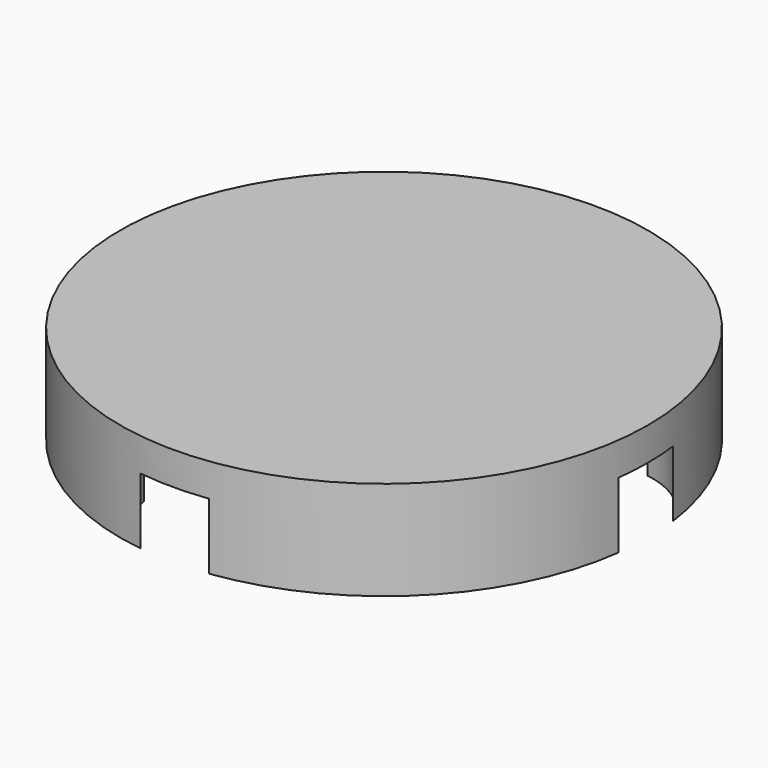
from build123d import *

# Parameters (mm, degrees)
F0_R     = 8
F1_DEPTH = 3
F3_DEPTH = 2


with BuildPart() as f1:
    # F0 (on Top) → F1 (new body)
    with BuildSketch(Plane.XY):
        Circle(F0_R)
    extrude(amount=F1_DEPTH)

    # F2 (on face) → F3 (cut)
    with BuildSketch(Plane(origin=(0, 0, 0), x_dir=(1, 0, 0), z_dir=(0, 0, -1))):
        with BuildLine():
            ThreePointArc((-7.9328542014, -1.0343230727), (-7.1559987547, -2.0006413353), (-6.0104076401, -2.4748737342))
            ThreePointArc((-6.0104076401, -2.4748737342), (-4.5961940777, -4.5961940777), (-2.4748737342, -6.0104076401))
            ThreePointArc((-2.4748737342, -6.0104076401), (-2.0006413353, -7.1559987547), (-1.0343230727, -7.9328542014))
            ThreePointArc((-1.0343230727, -7.9328542014), (0, -8), (1.0343230727, -7.9328542014))
            ThreePointArc((1.0343230727, -7.9328542014), (2.0006413353, -7.1559987547), (2.4748737342, -6.0104076401))
            ThreePointArc((2.4748737342, -6.0104076401), (4.5961940777, -4.5961940777), (6.0104076401, -2.4748737342))
            ThreePointArc((6.0104076401, -2.4748737342), (7.1559987547, -2.0006413353), (7.9328542014, -1.0343230727))
            ThreePointArc((7.9328542014, -1.0343230727), (7.9831959018, -0.5182501271), (8, 0))
            ThreePointArc((8, 0), (7.9831959018, 0.5182501271), (7.9328542014, 1.0343230727))
            ThreePointArc((7.9328542014, 1.0343230727), (7.1559987547, 2.0006413353), (6.0104076401, 2.4748737342))
            ThreePointArc((6.0104076401, 2.4748737342), (4.5961940777, 4.5961940777), (2.4748737342, 6.0104076401))
            ThreePointArc((2.4748737342, 6.0104076401), (2.0006413353, 7.1559987547), (1.0343230727, 7.9328542014))
            ThreePointArc((1.0343230727, 7.9328542014), (0, 8), (-1.0343230727, 7.9328542014))
            ThreePointArc((-1.0343230727, 7.9328542014), (-2.0006413353, 7.1559987547), (-2.4748737342, 6.0104076401))
            ThreePointArc((-2.4748737342, 6.0104076401), (-4.5961940777, 4.5961940777), (-6.0104076401, 2.4748737342))
            ThreePointArc((-6.0104076401, 2.4748737342), (-7.1559987547, 2.0006413353), (-7.9328542014, 1.0343230727))
            ThreePointArc((-7.9328542014, 1.0343230727), (-8, 0), (-7.9328542014, -1.0343230727))
        make_face()
        Polygon((-0.5, 0.5), (-0.5, 3.25), (0.5, 3.25), (0.5, 0.5), (3.25, 0.5), (3.25, -0.5), (0.5, -0.5), (0.5, -3.25), (-0.5, -3.25), (-0.5, -0.5), (-3.25, -0.5), (-3.25, 0.5), align=None, mode=Mode.SUBTRACT)
    extrude(amount=-F3_DEPTH, mode=Mode.SUBTRACT)


solid = f1.part
